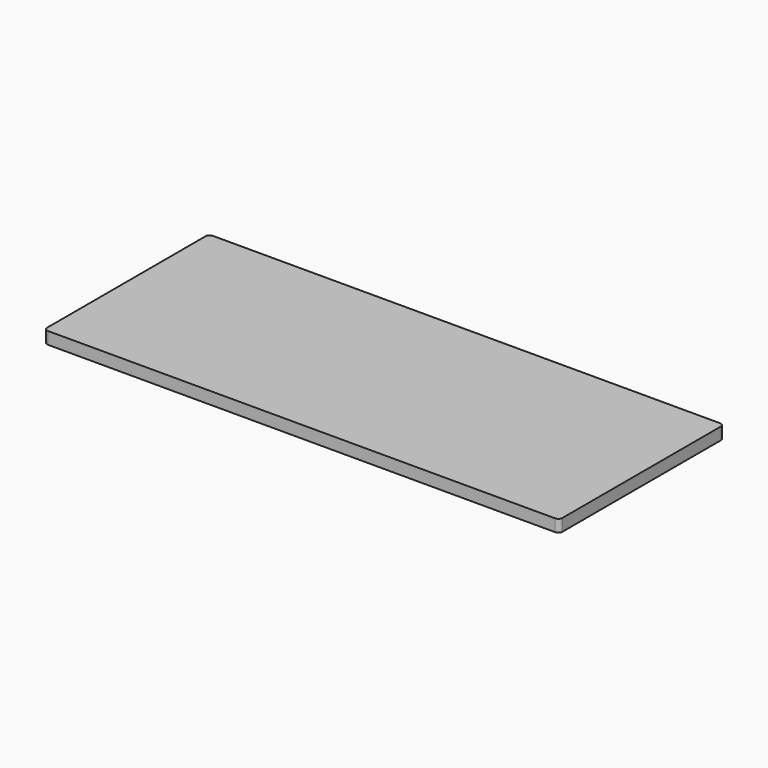
from build123d import *

# Parameters (mm, degrees)
PAD_DEPTH = 3


with BuildPart() as part:
    # Sketch → Pad (new body)
    with BuildSketch(Plane.XY):
        with BuildLine():
            ThreePointArc((-62.5, 25.4), (-63.207107, 25.107107), (-63.5, 24.4))
            Line((-63.5, -24.4), (-63.5, 24.4))
            ThreePointArc((-63.5, -24.4), (-63.207107, -25.107107), (-62.5, -25.4))
            Line((62.5, -25.4), (-62.5, -25.4))
            ThreePointArc((62.5, -25.4), (63.207107, -25.107107), (63.5, -24.4))
            Line((63.5, 24.4), (63.5, -24.4))
            ThreePointArc((63.5, 24.4), (63.207107, 25.107107), (62.5, 25.4))
            Line((-62.5, 25.4), (62.5, 25.4))
        make_face()
    extrude(amount=PAD_DEPTH)


solid = part.part
